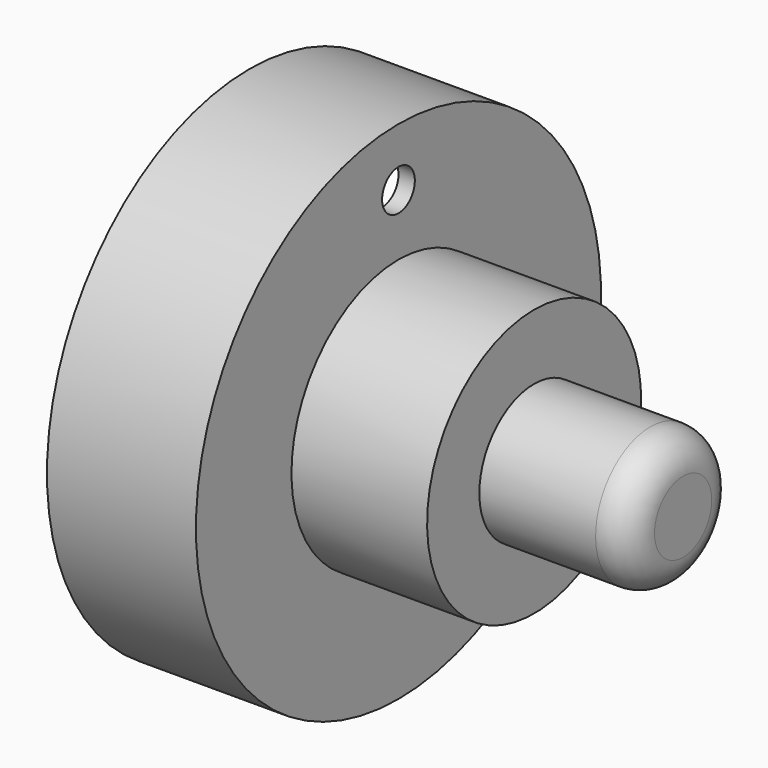
from build123d import *

# Parameters (mm, degrees)
F2_T = -2.54
F3_R = 5.08
F5_D = 6.35


with BuildPart() as f1:
    # F0 (on Front) → F1 (revolve)
    with BuildSketch(Plane.XZ):
        Polygon((0, 39.3052697182), (0, 0), (67.3264637589, 0), (67.3264637589, 10.6312446296), (44.1937856376, 10.6312446296), (44.1937856376, 20.7716822624), (23.1326818466, 20.7716822624), (23.1326818466, 39.3052697182), align=None)
    revolve(axis=Axis((33.6632318795, 0, 0), (1, 0, 0)))

    # F2
    f2_openings = [f1.faces().sort_by_distance(p)[0] for p in [
        (0, 0, 0),
    ]]
    offset(amount=F2_T, openings=f2_openings, kind=Kind.INTERSECTION)

    # F3
    f3_edges = [f1.edges().sort_by_distance(p)[0] for p in [
        (67.326464, 0, -10.631245),
    ]]
    fillet(f3_edges, radius=F3_R)

    # F5 (through all)
    with Locations(Plane.YZ.offset(23.1326818466)):
        with Locations((0, 30.2698779851)):
            Hole(F5_D / 2)


solid = f1.part
